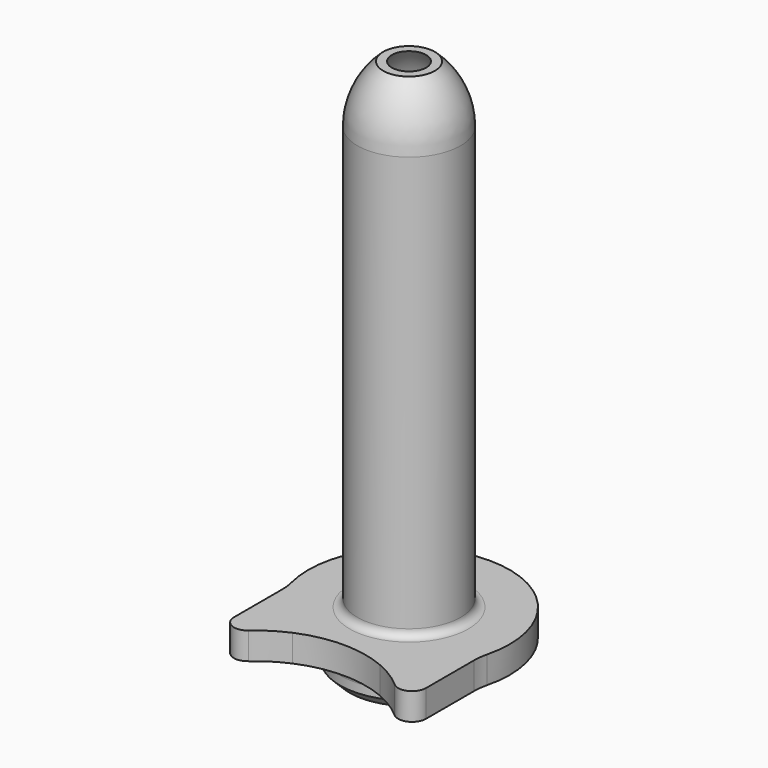
from build123d import *

# Parameters (mm, degrees)
F2_SIZE2 = 0.79375
F2_SIZE  = 0.79375
F5_DEPTH = 2.2352
F6_DEPTH = 25.4


with BuildPart() as f1:
    # F0 (on Right) → F1 (revolve)
    with BuildSketch(Plane.YZ):
        with BuildLine():
            Line((3.3734375, 38.3667), (3.3734375, -1.2065))
            Line((3.3734375, -1.2065), (5.6896, -1.2065))
            Line((5.6896, -1.2065), (5.6896, 0.3175))
            ThreePointArc((5.6896, 0.3175), (5.9499820715, 0.9461179285), (6.5786, 1.2065))
            Line((6.5786, 1.2065), (7.651716578, 1.2065))
            ThreePointArc((7.651716578, 1.2065), (8.3185, 2.3241), (7.651716578, 3.4417))
            Line((7.651716578, 3.4417), (4.9022, 3.4417))
            ThreePointArc((4.9022, 3.4417), (4.4531871939, 3.6276871939), (4.2672, 4.0767))
            Line((4.2672, 4.0767), (4.2672, 38.3667))
            ThreePointArc((4.2672, 38.3667), (3.7087667963, 40.9705920952), (2.1316869154, 43.1165))
            Line((2.1316869154, 43.1165), (1.418192935, 43.1165))
            ThreePointArc((1.418192935, 43.1165), (2.8655068761, 40.9349475226), (3.3734375, 38.3667))
        make_face()
    revolve(axis=Axis((0, 0, 20.955), (0, 0, 1)))

    # F2
    f2_edges = [f1.edges().sort_by_distance(p)[0] for p in [
        (0, -5.6896, -1.2065),
    ]]
    chamfer(f2_edges, length=F2_SIZE, length2=F2_SIZE2)

    # F3 (on face) → F5 (join)
    with BuildSketch(Plane(origin=(0, 0, 1.2065), x_dir=(1, 0, 0), z_dir=(0, 0, -1))):
        with BuildLine():
            ThreePointArc((-7.9248, 3.1851184766), (-7.9607701824, 2.6008906675), (-8.0681373786, 2.0254879633))
            ThreePointArc((-8.0681373786, 2.0254879633), (0, -8.3185), (8.0681373786, 2.0254879633))
            ThreePointArc((8.0681373786, 2.0254879633), (7.9607701824, 2.6008906675), (7.9248, 3.1851184766))
            Line((7.9248, 3.1851184766), (7.9248, 8.1611684277))
            ThreePointArc((7.9248, 8.1611684277), (7.2528781234, 9.2025782422), (6.0271020093, 9.0195855424))
            ThreePointArc((6.0271020093, 9.0195855424), (4.8804481809, 8.1611234409), (3.6136161551, 7.4926110625))
            ThreePointArc((3.6136161551, 7.4926110625), (0, 6.746875), (-3.6136161551, 7.4926110625))
            ThreePointArc((-3.6136161551, 7.4926110625), (-4.8804481809, 8.1611234409), (-6.0271020093, 9.0195855424))
            ThreePointArc((-6.0271020093, 9.0195855424), (-7.2528781234, 9.2025782422), (-7.9248, 8.1611684277))
            Line((-7.9248, 8.1611684277), (-7.9248, 3.1851184766))
        make_face()
        with BuildLine():
            ThreePointArc((3.6136161551, 7.4926110625), (0, 8.3185), (-3.6136161551, 7.4926110625))
            ThreePointArc((-3.6136161551, 7.4926110625), (0, 6.746875), (3.6136161551, 7.4926110625))
        make_face()
    extrude(amount=-F5_DEPTH)

    # F4 (on face) → F6 (cut)
    with BuildSketch(Plane(origin=(0, 0, 1.2065), x_dir=(1, 0, 0), z_dir=(0, 0, -1))):
        with BuildLine():
            ThreePointArc((3.6136161551, 7.4926110625), (0, 8.3185), (-3.6136161551, 7.4926110625))
            ThreePointArc((-3.6136161551, 7.4926110625), (0, 6.746875), (3.6136161551, 7.4926110625))
        make_face()
    extrude(amount=-F6_DEPTH, mode=Mode.SUBTRACT)


solid = f1.part
